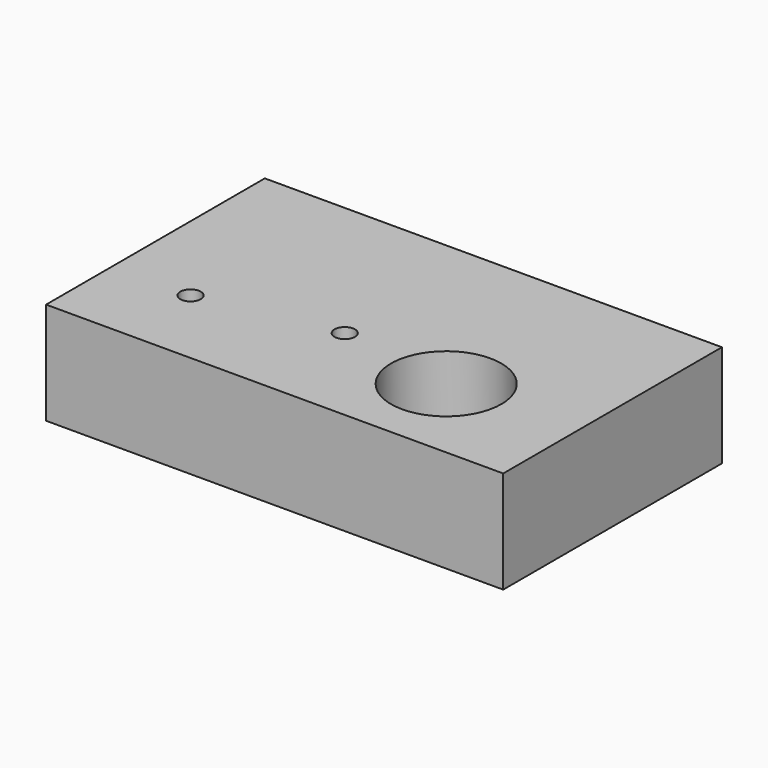
from build123d import *

# Parameters (mm, degrees)
F0_W     = 111.7238141596
F0_H     = 66.8160738423
F1_DEPTH = 25
F3_D     = 5
F5_D     = 5
F6_R     = 13.4792277867
F7_DEPTH = 25.001


with BuildPart() as f1:
    # F0 (on Top) → F1 (new body)
    with BuildSketch(Plane.XY):
        with Locations((-7.3526781052, 20.4115337692)):
            Rectangle(F0_W, F0_H)
    extrude(amount=F1_DEPTH)

    # F3 (through all)
    with Locations(Plane(origin=(0, 0, 0), x_dir=(1, 0, 0), z_dir=(0, 0, -1))):
        with Locations((-44.0534129739, -7.1848076768)):
            Hole(F3_D / 2)

    # F5 (through all)
    with Locations(Plane(origin=(0, 0, 0), x_dir=(1, 0, 0), z_dir=(0, 0, -1))):
        with Locations((-11.3455168903, -13.4060289711)):
            Hole(F5_D / 2)

    # F6 (on Top) → F7 (cut, through all)
    with BuildSketch(Plane.XY):
        with Locations((16.8637931347, 9.1420030221)):
            Circle(F6_R)
    extrude(amount=F7_DEPTH, mode=Mode.SUBTRACT)


solid = f1.part
